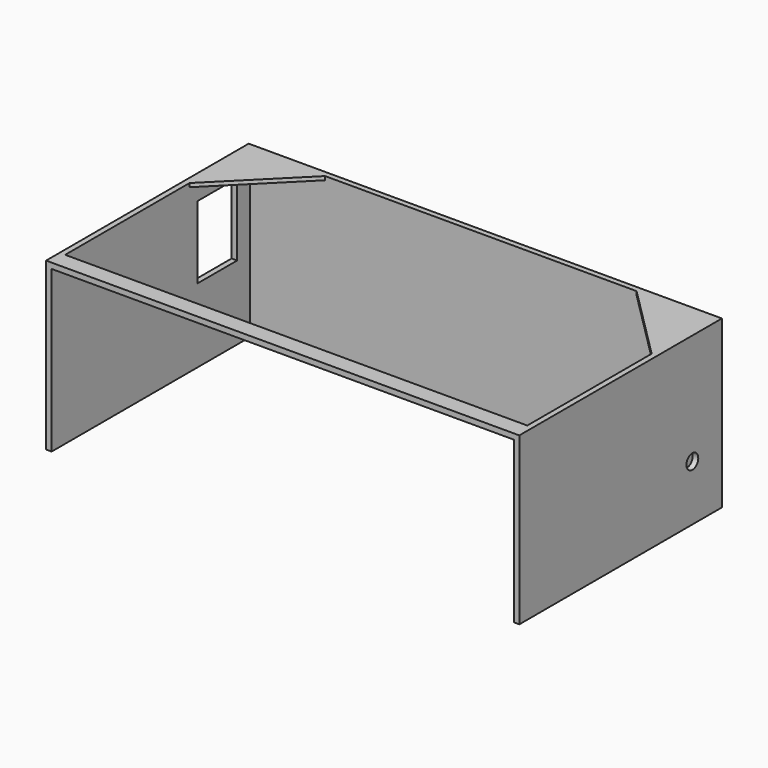
from build123d import *

# Parameters (mm, degrees)
F1_DEPTH  = 45
F2_W      = 13.4
F2_H      = 19.6
F3_DEPTH  = 3
F5_DEPTH  = 1
F7_W      = 125.609561801
F7_H      = 4.575594794
F8_DEPTH  = 1.5
F9_W      = 1.9871633053
F9_H      = 26.1965505779
F10_DEPTH = 16
F6_R      = 2
F11_DEPTH = 9.4


with BuildPart() as f1:
    # F0 (on Top) → F1 (new body)
    with BuildSketch(Plane.XY):
        Polygon((-64, 0), (-62.5, 0), (-62.5, 67), (62.5, 67), (62.5, 0), (64, 0), (64, 68.5), (-64, 68.5), align=None)
    extrude(amount=F1_DEPTH)

    # F2 (on face) → F3 (cut, symmetric)
    with BuildSketch(Plane(origin=(-64, 0, 0), x_dir=(0, -1, 0), z_dir=(-1, 0, 0))):
        with Locations((-56.0214279117, 29.8)):
            Rectangle(F2_W, F2_H)
    extrude(amount=F3_DEPTH, both=True, mode=Mode.SUBTRACT)

    # F4 (on face) → F5 (join)
    with BuildSketch(Plane.XY.offset(45)):
        Polygon((-42.12194103, 67), (-62.5, 67), (-62.5, 46.62194103), align=None)
        Polygon((62.5, 67), (42.12194103, 67), (62.5, 46.62194103), align=None)
    extrude(amount=-F5_DEPTH)

    # F7 (on face) → F8 (join)
    with BuildSketch(Plane.XY.offset(45)):
        with Locations((0.1741200686, 2.287797397)):
            Rectangle(F7_W, F7_H)
    extrude(amount=-F8_DEPTH)

    # F9 (on face) → F10 (join)
    with BuildSketch(Plane.XZ.offset(-67)):
        with Locations((59.5064183474, 13.0982752889)):
            Rectangle(F9_W, F9_H)
    extrude(amount=F10_DEPTH)

    # F6 (on face) → F11 (cut, symmetric)
    with BuildSketch(Plane.YZ.offset(64)):
        with Locations((58.5, 15)):
            Circle(F6_R)
    extrude(amount=F11_DEPTH, both=True, mode=Mode.SUBTRACT)


solid = f1.part
